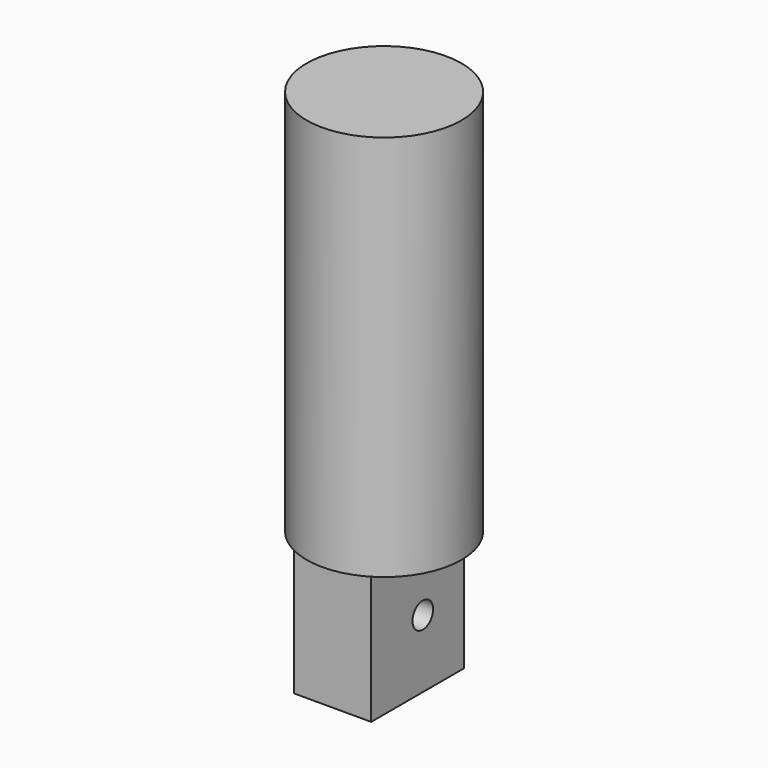
from build123d import *

# Parameters (mm, degrees)
F0_W          = 30
F0_H          = 150
F2_W          = 30
F2_H          = 100
F3_DEPTH      = 20
F3_DEPTH_BACK = 25
F5_D          = 10


with BuildPart() as f1:
    # F0 (on Front) → F1 (revolve)
    with BuildSketch(Plane.XZ):
        with Locations((15, 75)):
            Rectangle(F0_W, F0_H)
    revolve(axis=Axis((0, 0, 75), (0, 0, 1)))

    # F2 (on Front) → F3 (join, two sides)
    with BuildSketch(Plane.XZ) as f3_sk:
        Rectangle(F2_W, F2_H)
    extrude(amount=-F3_DEPTH)
    extrude(f3_sk.sketch, amount=F3_DEPTH_BACK)

    # F5 (through all)
    with Locations(Plane(origin=(-15, 0, 0), x_dir=(0, -1, 0), z_dir=(-1, 0, 0))):
        with Locations((0, -23.7088240683)):
            Hole(F5_D / 2)


solid = f1.part
